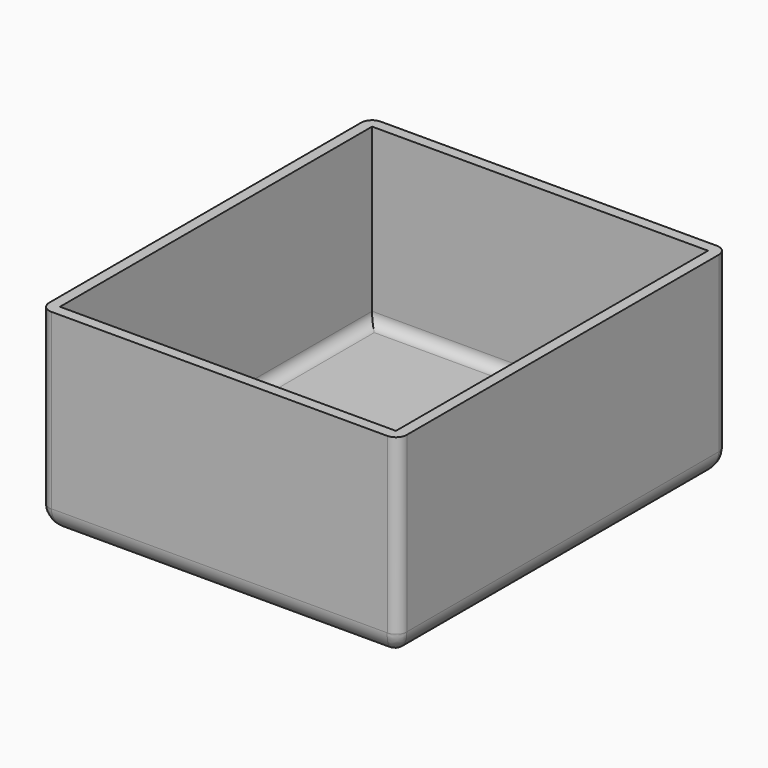
from build123d import *

# Parameters (mm, degrees)
SKETCH001_W      = 31
SKETCH001_H      = 36
EXTRUDE002_DEPTH = 16
SKETCH_W         = 33
SKETCH_H         = 38
EXTRUDE_DEPTH    = 18
FILLET_R         = 1
FILLET001_R      = 2
FILLET002_R      = 1


with BuildPart() as inside:
    # Sketch001 (on Face6 of Extrude) → Extrude002 (new body)
    with BuildSketch(Plane.XY.offset(18)):
        with Locations((16.5, 19)):
            Rectangle(SKETCH001_W, SKETCH001_H)
    extrude(amount=-EXTRUDE002_DEPTH)


with BuildPart() as body:
    # Sketch → Extrude (new body)
    with BuildSketch(Plane.XY):
        with Locations((16.5, 19)):
            Rectangle(SKETCH_W, SKETCH_H)
    extrude(amount=EXTRUDE_DEPTH)

    # Cut: cut Inside
    add(inside.part, mode=Mode.SUBTRACT)

    # Fillet
    fillet_edges = [body.edges().sort_by_distance(p)[0] for p in [
        (16.5, 37, 2),
        (32, 19, 2),
        (1, 19, 2),
        (16.5, 1, 2),
    ]]
    fillet(fillet_edges, radius=FILLET_R)

    # Fillet001
    fillet001_edges = [body.edges().sort_by_distance(p)[0] for p in [
        (0, 19, 0),
        (16.5, 0, 0),
        (16.5, 38, 0),
        (33, 19, 0),
    ]]
    fillet(fillet001_edges, radius=FILLET001_R)

    # Fillet002
    fillet002_edges = [body.edges().sort_by_distance(p)[0] for p in [
        (33, 38, 10),
        (33, 0, 10),
        (0, 0, 10),
        (0, 38, 10),
    ]]
    fillet(fillet002_edges, radius=FILLET002_R)


solid = body.part
